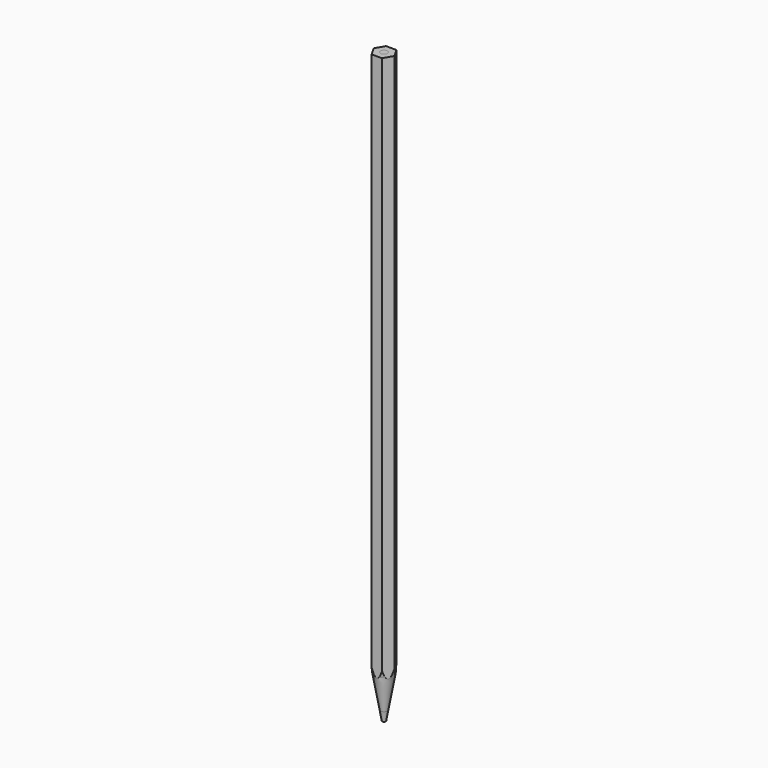
from build123d import *

# Parameters (mm, degrees)
F0_R     = 1
F1_DEPTH = 170
F2_DEPTH = 170


with BuildPart() as f1:
    # F0 (on Top) → F1 (new body)
    with BuildSketch(Plane.XY):
        Polygon((1.5, 2.598076), (-1.5, 2.598076), (-3, 0), (-1.5, -2.598076), (1.5, -2.598076), (3, 0), align=None)
        Circle(F0_R, mode=Mode.SUBTRACT)
    extrude(amount=F1_DEPTH)


with BuildPart() as f2:
    # F0 (on Top) → F2 (new body)
    with BuildSketch(Plane.XY):
        Circle(F0_R)
    extrude(amount=F2_DEPTH)


with BuildPart() as f4_tool:
    # F3 (on Front) → F4 (revolve)
    with BuildSketch(Plane.XZ):
        Polygon((3.640195, 17.808931), (0.5, 0), (3.640195, 0), align=None)
    revolve(axis=Axis((0, 0, -3.991001), (0, 0, -1)))


with BuildPart() as f1_1:
    add(f1.part)

    # F4: cut by f4_tool
    add(f4_tool.part, mode=Mode.SUBTRACT)


with BuildPart() as f2_1:
    add(f2.part)

    # F4: cut by f4_tool
    add(f4_tool.part, mode=Mode.SUBTRACT)


solid = Compound([f1_1.part, f2_1.part])
